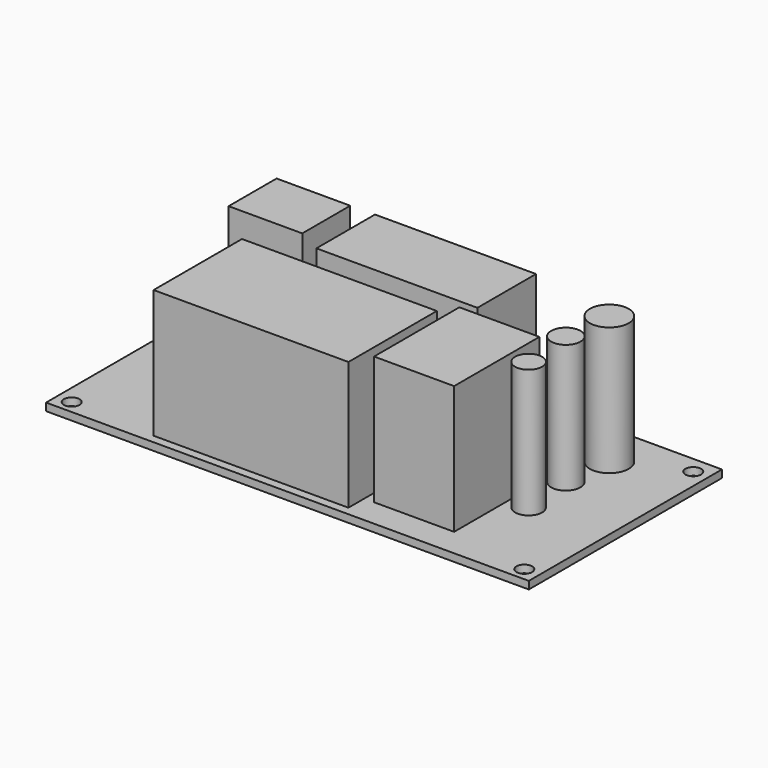
from build123d import *

# Parameters (mm, degrees)
F0_W     = 101.6
F0_H     = 50.8
F0_R     = 1.65
F1_DEPTH = 1.6
F2_W     = 15.501738
F2_H     = 12.617692
F2_W_2   = 33.887516
F2_H_2   = 15.411611
F2_W_3   = 41.007504
F2_H_3   = 23.252605
F2_W_4   = 16.853633
F2_H_4   = 22.441468
F2_R     = 4.087607
F2_R_2   = 3.08016
F2_R_3   = 2.845767
F3_DEPTH = 27


with BuildPart() as f1:
    # F0 (on Top) → F1 (new body)
    with BuildSketch(Plane.XY):
        with Locations((-19.175592, 1.734423)):
            Rectangle(F0_W, F0_H)
        with Locations((-66.800592, -20.890577)):
            Circle(F0_R, mode=Mode.SUBTRACT)
        with Locations((28.449408, -20.890577)):
            Circle(F0_R, mode=Mode.SUBTRACT)
        with Locations((-66.800592, 23.559423)):
            Circle(F0_R, mode=Mode.SUBTRACT)
        with Locations((28.449408, 23.559423)):
            Circle(F0_R, mode=Mode.SUBTRACT)
    extrude(amount=F1_DEPTH)

    # F2 (on face) → F3 (join)
    with BuildSketch(Plane.XY.offset(1.6)):
        with Locations((-50.060928, 15.461646)):
            Rectangle(F2_W, F2_H)
        with Locations((-20.229096, 14.154814)):
            Rectangle(F2_W_2, F2_H_2)
        with Locations((-28.295409, -10.224371)):
            Rectangle(F2_W_3, F2_H_3)
        with Locations((2.708067, -6.484127)):
            Rectangle(F2_W_4, F2_H_4)
        with Locations((15.460948, 17.714806)):
            Circle(F2_R)
        with Locations((14.379433, 7.620651)):
            Circle(F2_R_2)
        with Locations((15.280697, -3.28464)):
            Circle(F2_R_3)
    extrude(amount=F3_DEPTH)


solid = f1.part
